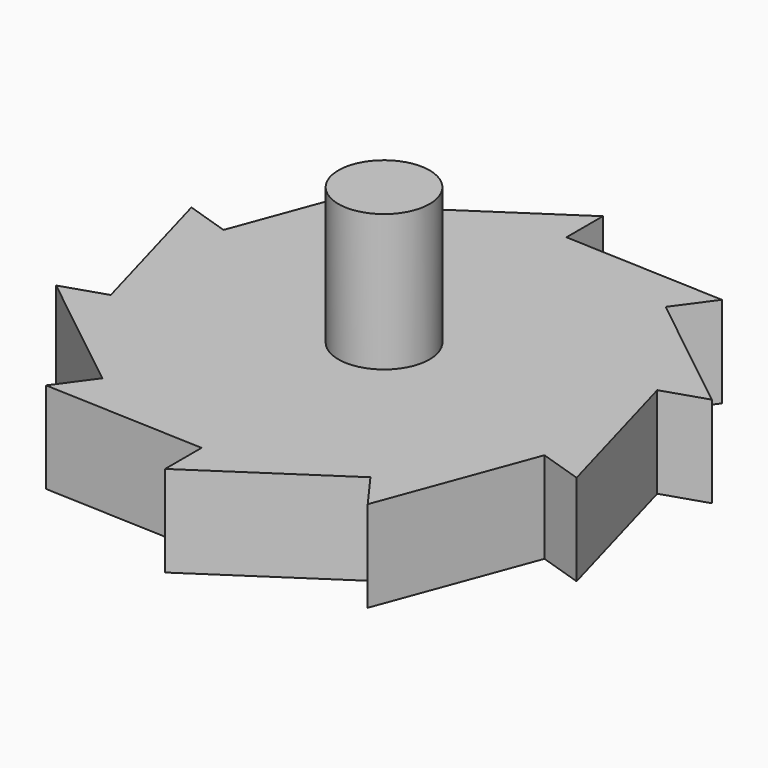
from build123d import *

# Parameters (mm, degrees)
F1_DEPTH = 10
F2_R     = 5
F3_DEPTH = 25
F4_R     = 5
F5_DEPTH = 10


with BuildPart() as f1:
    # F0 (on Top) → F1 (new body)
    with BuildSketch(Plane.XY):
        Polygon((0, 25), (0, 30), (-14.694631, 20.225425), (-17.633558, 24.27051), (-23.776413, 7.725425), (-28.531695, 9.27051), (-23.776413, -7.725425), (-28.531695, -9.27051), (-14.694631, -20.225425), (-17.633558, -24.27051), (0, -25), (0, -30), (14.694631, -20.225425), (17.633558, -24.27051), (23.776413, -7.725425), (28.531695, -9.27051), (23.776413, 7.725425), (28.531695, 9.27051), (14.694631, 20.225425), (17.633558, 24.27051), align=None)
    extrude(amount=F1_DEPTH)

    # F2 (on Top) → F3 (join)
    with BuildSketch(Plane.XY):
        Circle(F2_R)
    extrude(amount=F3_DEPTH)

    # F4 (on Top) → F5 (join)
    with BuildSketch(Plane.XY):
        Circle(F4_R)
    extrude(amount=F5_DEPTH)


solid = f1.part
